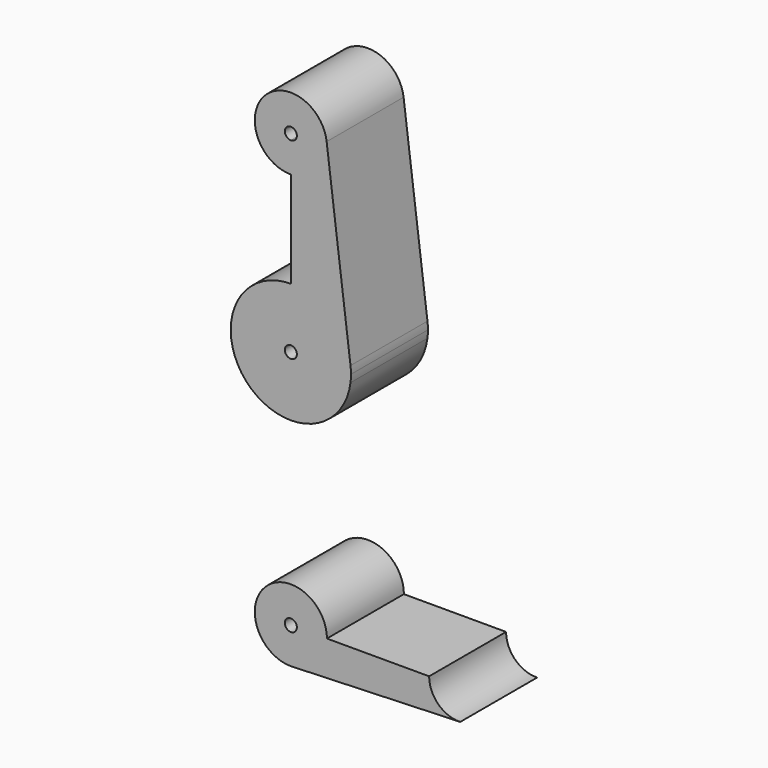
from build123d import *

# Parameters (mm, degrees)
F1_DEPTH = 25.4
F0_R     = 1.5875


with BuildPart() as f1:
    # F0 (on Front) → F1 (new body)
    with BuildSketch(Plane.XZ):
        with BuildLine():
            ThreePointArc((-9.4502929642, 115.490625), (-7.14375, 107.9998046905), (0, 104.775))
            ThreePointArc((0, 104.775), (6.7351920908, 107.5648079092), (9.525, 114.3))
            ThreePointArc((9.525, 114.3), (9.5063048942, 114.896483242), (9.4502929642, 115.490625))
            ThreePointArc((9.4502929642, 115.490625), (0, 123.825), (-9.4502929642, 115.490625))
        make_face()
        with BuildLine():
            ThreePointArc((1.5875, 114.3), (1.1225320151, 113.1774679849), (0, 112.7125))
            ThreePointArc((0, 112.7125), (-1.1225320151, 115.4225320151), (1.5875, 114.3))
        make_face(mode=Mode.SUBTRACT)
        with BuildLine():
            ThreePointArc((9.525, 114.3), (6.7351920908, 107.5648079092), (0, 104.775))
            Line((0, 104.775), (0, 79.375))
            ThreePointArc((0, 79.375), (10.5003255158, 75.40625), (15.7504882737, 65.484375))
            Line((15.7504882737, 65.484375), (9.4502929642, 115.490625))
            ThreePointArc((9.4502929642, 115.490625), (9.5063048942, 114.896483242), (9.525, 114.3))
        make_face()
        with BuildLine():
            ThreePointArc((15.7504882737, 65.484375), (10.5003255158, 75.40625), (0, 79.375))
            ThreePointArc((0, 79.375), (-10.5003255158, 75.40625), (-15.7504882737, 65.484375))
            ThreePointArc((-15.7504882737, 65.484375), (-15.875, 63.5), (-15.7504882737, 61.515625))
            ThreePointArc((-15.7504882737, 61.515625), (0, 47.625), (15.7504882737, 61.515625))
            ThreePointArc((15.7504882737, 61.515625), (15.8438414904, 62.5058612634), (15.875, 63.5))
            ThreePointArc((15.875, 63.5), (15.8438414904, 64.4941387366), (15.7504882737, 65.484375))
        make_face()
        with BuildLine():
            ThreePointArc((1.5875, 63.5), (-1.1225320151, 62.3774679849), (0, 65.0875))
            ThreePointArc((0, 65.0875), (1.1225320151, 64.6225320151), (1.5875, 63.5))
        make_face(mode=Mode.SUBTRACT)
    extrude(amount=F1_DEPTH)


with BuildPart() as f1b:
    # F0 (on Front) → F1, piece 2 (new body)
    with BuildSketch(Plane.XZ):
        with BuildLine():
            ThreePointArc((44.7324052746, -7.9324746146), (38.9380895153, -5.7116327839), (36.5125, 0))
            Line((36.5125, 0), (9.525, 0))
            ThreePointArc((9.525, 0), (6.9705567315, -6.4912990883), (0.6773435479, -9.500885786))
            Line((0.6773435479, -9.500885786), (44.7324052746, -7.9324746146))
        make_face()
        with BuildLine():
            ThreePointArc((0.6773435479, -9.500885786), (6.9705567315, -6.4912990883), (9.525, 0))
            ThreePointArc((9.525, 0), (-6.7351920908, 6.7351920908), (0, -9.525))
            Line((0, -9.525), (0.6773435479, -9.500885786))
        make_face()
        Circle(F0_R, mode=Mode.SUBTRACT)
    extrude(amount=F1_DEPTH)


solid = Compound([f1.part, f1b.part])
